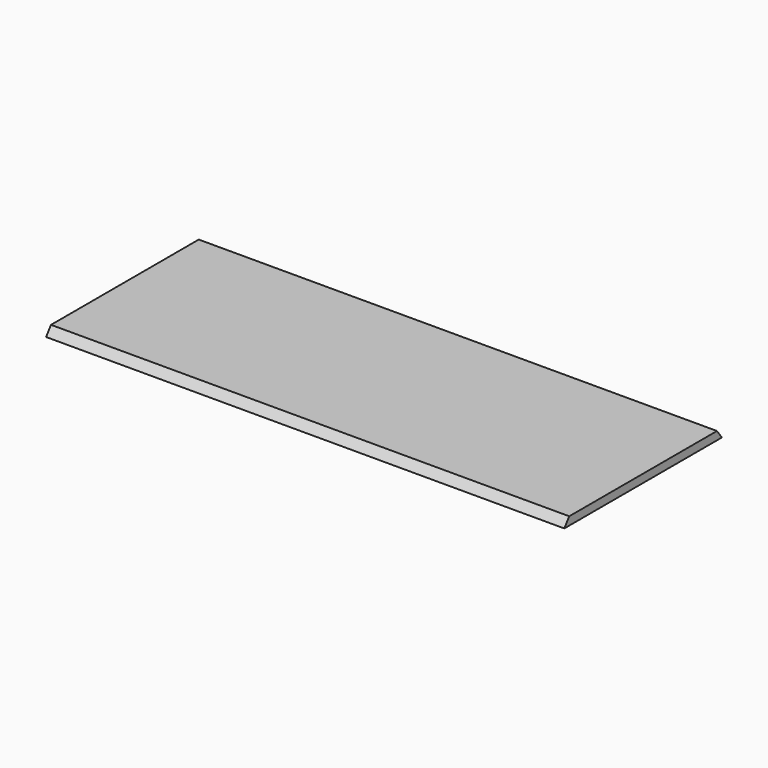
from build123d import *

# Parameters (mm, degrees)
BOX_W        = 126
BOX_H        = 47.9
BOX_DEPTH    = 2
POCKET_DEPTH = 126


with BuildPart() as part:
    # Box → Box (new body)
    with BuildSketch(Plane.XY):
        with Locations((63, 23.95)):
            Rectangle(BOX_W, BOX_H)
    extrude(amount=BOX_DEPTH)

    # Sketch → Pocket (cut)
    with BuildSketch(Plane.YZ.offset(126)):
        Polygon((0, 0), (1.5, 2), (0, 2), align=None)
        Polygon((46.4, 2), (47.9, 2), (47.9, 0), align=None)
    extrude(amount=-POCKET_DEPTH, mode=Mode.SUBTRACT)


solid = part.part
